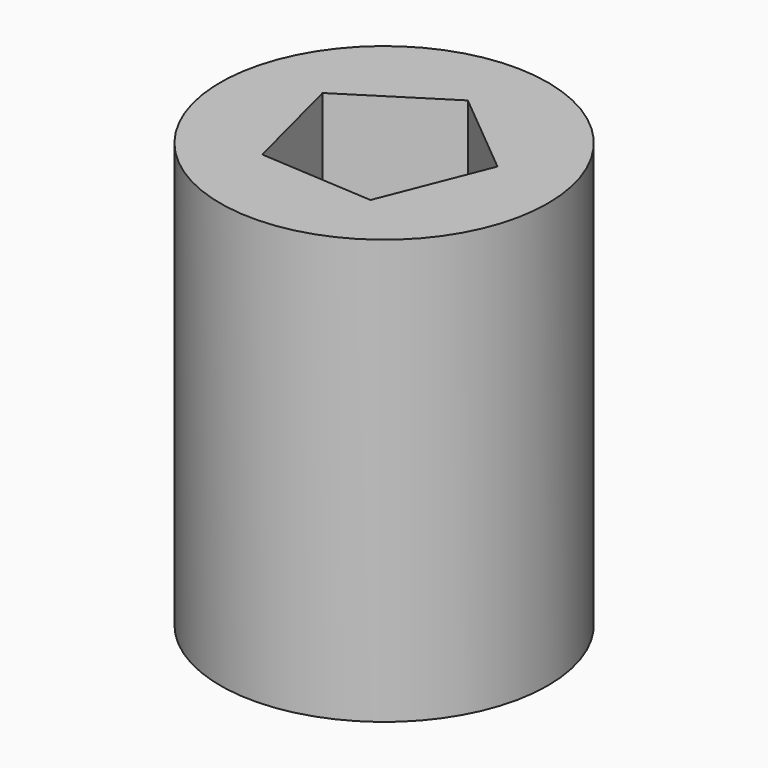
from build123d import *

# Parameters (mm, degrees)
F0_R     = 61.33853
F1_DEPTH = 159.004
F3_DEPTH = 159.005


with BuildPart() as f1:
    # F0 (on Top) → F1 (new body)
    with BuildSketch(Plane.XY):
        Circle(F0_R)
    extrude(amount=F1_DEPTH)

    # F2 (on Top) → F3 (cut, through all)
    with BuildSketch(Plane.XY):
        Polygon((35.246573, 9.020818), (2.312482, 36.309069), (-33.81738, 13.41942), (-23.212772, -28.015411), (19.471098, -30.733897), align=None)
    extrude(amount=F3_DEPTH, mode=Mode.SUBTRACT)


solid = f1.part
